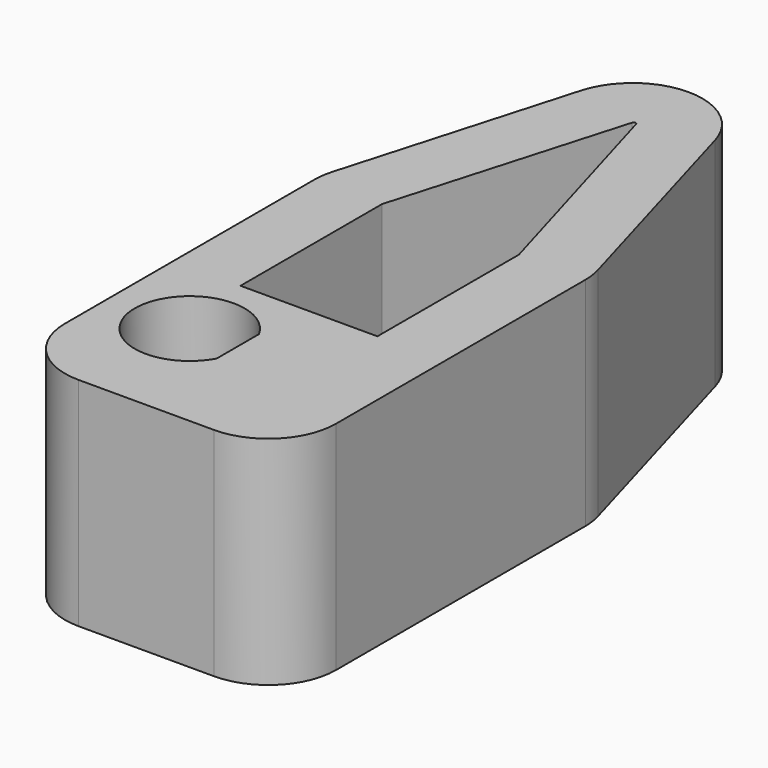
from build123d import *

# Parameters (mm, degrees)
PAD_DEPTH            = 16
POCKET_DEPTH         = 106.884114
POCKET_DEPTH_BACK    = 122.884114
POCKET001_DEPTH      = 0.001
POCKET001_DEPTH_BACK = 16.001


with BuildPart() as part:
    # Sketch → Pad (new body)
    with BuildSketch(Plane.XY):
        with BuildLine():
            ThreePointArc((4.949542, 31.272861), (3.097964, 33.964015), (0, 35))
            Line((0, -15), (0, 35))
            Line((0, -15), (5, -15))
            ThreePointArc((5, -15), (8.535534, -13.535534), (10, -10))
            Line((10, -10), (10, 13))
            ThreePointArc((10, 13), (9.951106, 13.69753), (9.805381, 14.381419))
            Line((4.949542, 31.272861), (9.805381, 14.381419))
        make_face()
    pad = extrude(amount=PAD_DEPTH)

    # Sketch001 → Pocket (cut, two sides)
    with BuildSketch(Plane.XY) as pocket_sk:
        with BuildLine():
            Line((0, 0), (5.05, 0))
            Line((5.05, 0), (5.05, 13.05))
            Line((5.05, 13.05), (0.144081, 29.991722))
            ThreePointArc((0.144081, 29.991722), (0.090116, 30.069913), (0, 30.1))
            Line((0, 30.1), (0, 0))
        make_face()
    pocket = extrude(amount=-POCKET_DEPTH, mode=Mode.SUBTRACT) + extrude(pocket_sk.sketch, amount=POCKET_DEPTH_BACK, mode=Mode.SUBTRACT)

    # Mirrored: Pad, Pocket across Sketch V_Axis
    add(pad.mirror(Plane(origin=(0, 0, 0), x_dir=(0, 0, 1), z_dir=(1, 0, 0))))
    add(pocket.mirror(Plane(origin=(0, 0, 0), x_dir=(0, 0, 1), z_dir=(1, 0, 0))), mode=Mode.SUBTRACT)

    # Sketch002 → Pocket001 (cut, two sides)
    with BuildSketch(Plane(origin=(-4, -6, 0), x_dir=(1, 0, 0), z_dir=(0, 0, 1))) as pocket001_sk:
        with BuildLine():
            ThreePointArc((3.55, 1.949359), (-4.05, 0), (3.55, -1.949359))
            Line((3.55, 1.949359), (3.55, -1.949359))
        make_face()
    extrude(amount=-POCKET001_DEPTH, mode=Mode.SUBTRACT)
    extrude(pocket001_sk.sketch, amount=POCKET001_DEPTH_BACK, mode=Mode.SUBTRACT)


with BuildPart() as part_1:
    # Clone placement: moved
    add(part.part.moved(Location((10, 15, 0))))


solid = part_1.part
